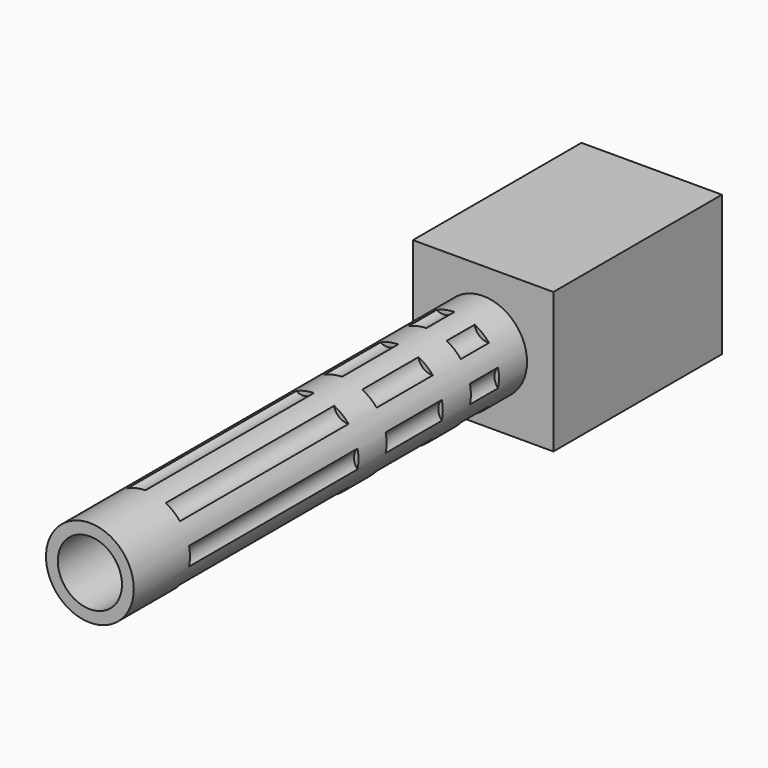
from build123d import *

# Parameters (mm, degrees)
F0_W     = 25.4
F0_H     = 25.4
F0_R     = 7.9375
F0_R_2   = 5.8024107256
F1_DEPTH = 38.1
F2_DEPTH = 127
F4_START = -12.7
F3_R     = 2.4554456834
F4_DEPTH = 38.1
F5_START = -57.15
F5_DEPTH = 12.7
F6_START = -76.2
F6_DEPTH = 6.35


with BuildPart() as f1:
    # F0 (on Front) → F1 (new body)
    with BuildSketch(Plane.XZ):
        Rectangle(F0_W, F0_H)
        Circle(F0_R, mode=Mode.SUBTRACT)
        Circle(F0_R)
        Circle(F0_R_2, mode=Mode.SUBTRACT)
    extrude(amount=F1_DEPTH)

    # F0 (on Front) → F2 (join)
    with BuildSketch(Plane.XZ):
        Circle(F0_R)
        Circle(F0_R_2, mode=Mode.SUBTRACT)
    extrude(amount=F2_DEPTH)

    # F3 (on face) → F4 (cut)
    with BuildSketch(Plane.XZ.offset(127).offset(F4_START)):
        with Locations((9.5774363726, 0)):
            Circle(F3_R)
        with Locations((5.9714339063, 7.4879412775)):
            Circle(F3_R)
        with Locations((-2.1311800865, 9.3373100468)):
            Circle(F3_R)
        with Locations((-8.6289720061, 4.1554939045)):
            Circle(F3_R)
        with Locations((-8.6289720061, -4.1554939045)):
            Circle(F3_R)
        with Locations((-2.1311800865, -9.3373100468)):
            Circle(F3_R)
        with Locations((5.9714339063, -7.4879412775)):
            Circle(F3_R)
    extrude(amount=-F4_DEPTH, mode=Mode.SUBTRACT)

    # F3 (on face) → F5 (cut)
    with BuildSketch(Plane.XZ.offset(127).offset(F5_START)):
        with Locations((9.5774363726, 0)):
            Circle(F3_R)
        with Locations((5.9714339063, 7.4879412775)):
            Circle(F3_R)
        with Locations((-2.1311800865, 9.3373100468)):
            Circle(F3_R)
        with Locations((-8.6289720061, 4.1554939045)):
            Circle(F3_R)
        with Locations((-8.6289720061, -4.1554939045)):
            Circle(F3_R)
        with Locations((-2.1311800865, -9.3373100468)):
            Circle(F3_R)
        with Locations((5.9714339063, -7.4879412775)):
            Circle(F3_R)
    extrude(amount=-F5_DEPTH, mode=Mode.SUBTRACT)

    # F3 (on face) → F6 (cut)
    with BuildSketch(Plane.XZ.offset(127).offset(F6_START)):
        with Locations((9.5774363726, 0)):
            Circle(F3_R)
        with Locations((5.9714339063, 7.4879412775)):
            Circle(F3_R)
        with Locations((-2.1311800865, 9.3373100468)):
            Circle(F3_R)
        with Locations((-8.6289720061, 4.1554939045)):
            Circle(F3_R)
        with Locations((-8.6289720061, -4.1554939045)):
            Circle(F3_R)
        with Locations((-2.1311800865, -9.3373100468)):
            Circle(F3_R)
        with Locations((5.9714339063, -7.4879412775)):
            Circle(F3_R)
    extrude(amount=-F6_DEPTH, mode=Mode.SUBTRACT)


solid = f1.part
